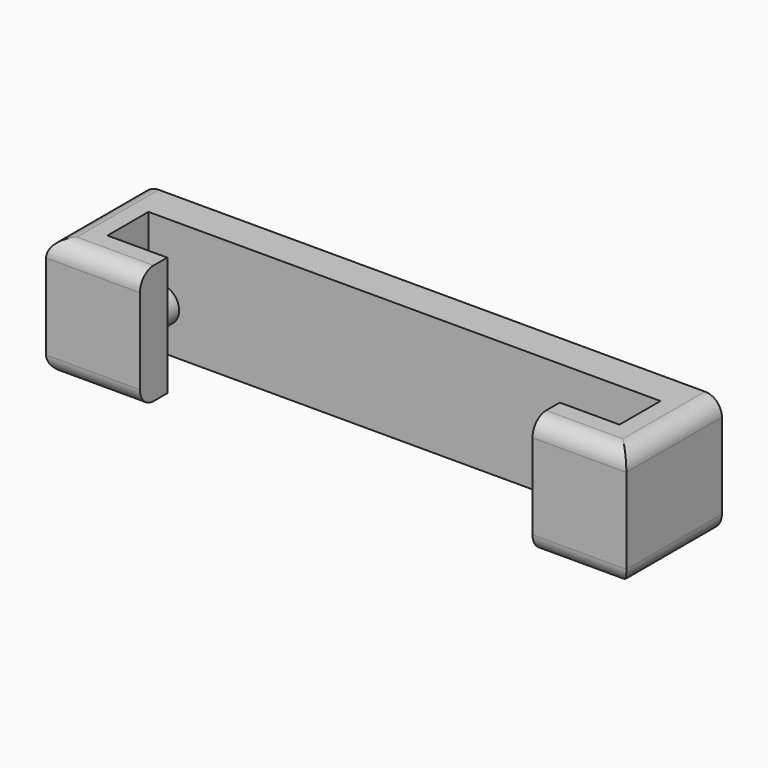
from build123d import *

# Parameters (mm, degrees)
PAD_DEPTH    = 3.5
SKETCH001_R  = 1
PAD001_DEPTH = 1.5
FILLET_R     = 1


with BuildPart() as part:
    # Sketch → Pad (new body, symmetric)
    with BuildSketch(Plane.XY):
        Polygon((0, 0), (15, 0), (15, -3), (11.5, -3), (11.5, -5), (17, -5), (17, 2), (-17, 2), (-17, -5), (-11.5, -5), (-11.5, -3), (-15, -3), (-15, 0), align=None)
    extrude(amount=PAD_DEPTH, both=True)

    # Sketch001 (on Face11 of Pad) → Pad001 (join)
    with BuildSketch(Plane(origin=(0, -3, 0), x_dir=(-1, 0, 0), z_dir=(0, 1, 0))):
        with Locations((-13, 0)):
            Circle(SKETCH001_R)
        with Locations((13, 0)):
            Circle(SKETCH001_R)
    extrude(amount=PAD001_DEPTH)

    # Fillet
    fillet_edges = [part.edges().sort_by_distance(p)[0] for p in [
        (14.25, -5, 3.5),
        (-14.25, -5, 3.5),
        (-14.25, -5, -3.5),
        (14.25, -5, -3.5),
        (-17, -1.5, 3.5),
        (17, -1.5, 3.5),
        (17, -1.5, -3.5),
        (-17, -1.5, -3.5),
    ]]
    fillet(fillet_edges, radius=FILLET_R)


solid = part.part
